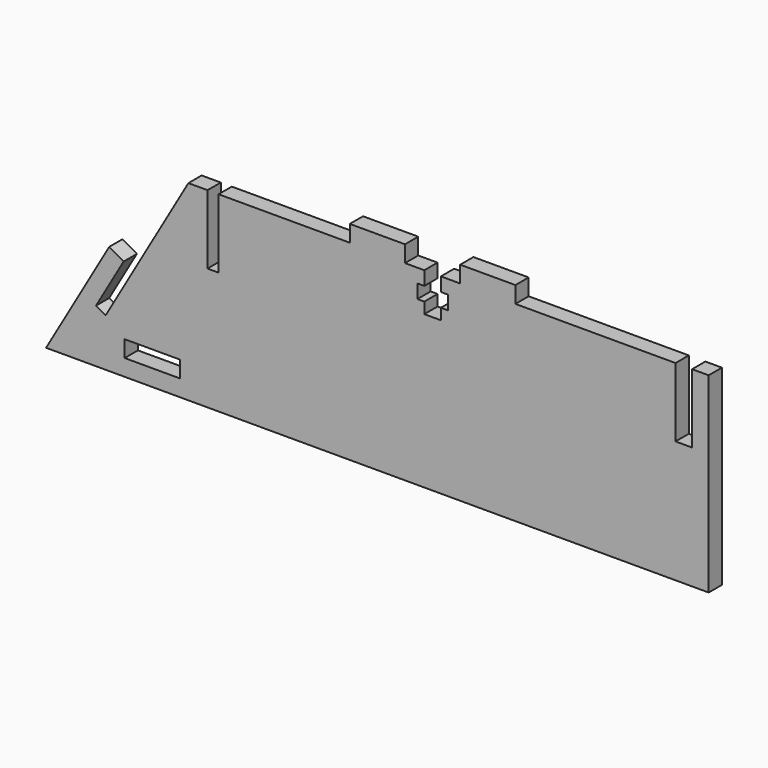
from build123d import *

# Parameters (mm, degrees)
F0_W     = 10
F0_H     = 3
F1_DEPTH = 3


with BuildPart() as f1:
    # F0 (on Front) → F1 (new body)
    with BuildSketch(Plane.XZ):
        Polygon((-90.762396, 34.641016), (-94.226497, 34.641016), (-109.226497, 8.660254), (-110.958548, 9.660254), (-105.958548, 18.320508), (-108.556624, 19.820508), (-120, 0), (0, 0), (0, 34.641016), (-3, 34.641016), (-3, 22.141016), (-6, 22.141016), (-6, 34.641016), (-35, 34.641016), (-35, 37.641016), (-45, 37.641016), (-45, 34.641016), (-48.5, 34.641016), (-48.5, 32.141016), (-47.25, 32.141016), (-47.25, 29.641016), (-48.5, 29.641016), (-48.5, 27.641016), (-51.5, 27.641016), (-51.5, 29.641016), (-52.75, 29.641016), (-52.75, 32.141016), (-51.5, 32.141016), (-51.5, 34.641016), (-55, 34.641016), (-55, 37.641016), (-65, 37.641016), (-65, 34.641016), (-88.762396, 34.641016), (-88.762396, 22.141016), (-90.762396, 22.141016), align=None)
        with Locations((-100.762396, 4.5)):
            Rectangle(F0_W, F0_H, mode=Mode.SUBTRACT)
    extrude(amount=F1_DEPTH)


solid = f1.part
